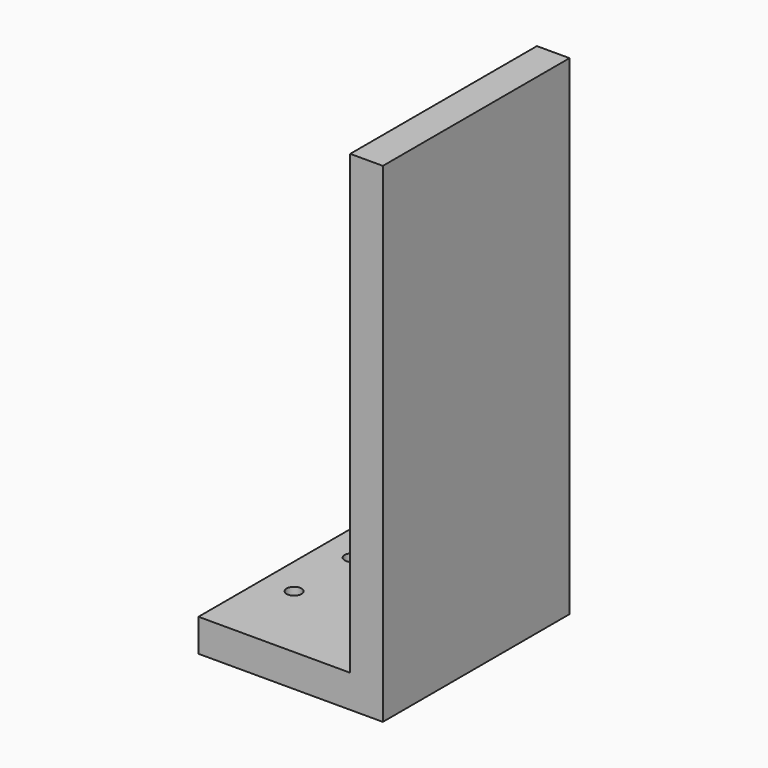
from build123d import *

# Parameters (mm, degrees)
F0_W     = 12.7
F0_H     = 90.8
F0_W_2   = 59.05
F0_R     = 2.921
F1_DEPTH = 12.7
F2_DEPTH = 190.5


with BuildPart() as f1:
    # F0 (on Top) → F1 (new body)
    with BuildSketch(Plane.XY):
        with Locations((39.05, 0)):
            Rectangle(F0_W, F0_H)
        with Locations((3.175, 0)):
            Rectangle(F0_W_2, F0_H)
        with Locations((-14.142136, -14.142136)):
            Circle(F0_R, mode=Mode.SUBTRACT)
        with Locations((14.142136, -14.142136)):
            Circle(F0_R, mode=Mode.SUBTRACT)
        with Locations((-14.142136, 14.142136)):
            Circle(F0_R, mode=Mode.SUBTRACT)
        with Locations((14.142136, 14.142136)):
            Circle(F0_R, mode=Mode.SUBTRACT)
    extrude(amount=F1_DEPTH)

    # F0 (on Top) → F2 (join)
    with BuildSketch(Plane.XY):
        with Locations((39.05, 0)):
            Rectangle(F0_W, F0_H)
    extrude(amount=F2_DEPTH)


with BuildPart() as f3_1:
    # F3: copy of F1
    add(f1.part)


solid = f1.part
